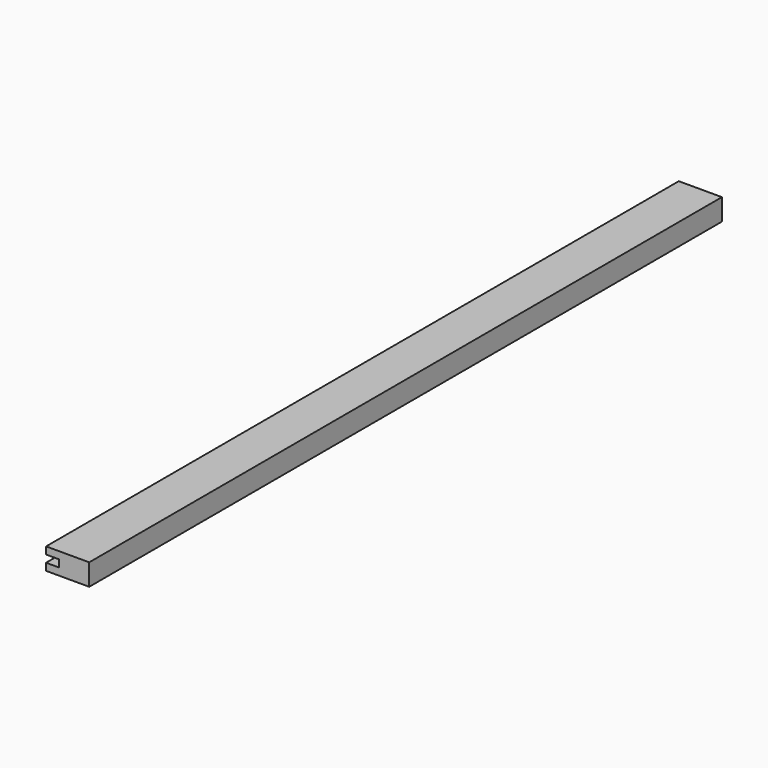
from build123d import *

# Parameters (mm, degrees)
F0_W     = 38.1
F0_H     = 19.05
F1_DEPTH = 698.5
F3_DEPTH = 698.501


with BuildPart() as f1:
    # F0 (on Front) → F1 (new body)
    with BuildSketch(Plane.XZ):
        Rectangle(F0_W, F0_H)
    extrude(amount=F1_DEPTH)

    # F2 (on face) → F3 (cut, through all)
    with BuildSketch(Plane.XZ.offset(698.5)):
        Polygon((-19.05, 0), (-19.05, -3.175), (-7.569117, -3.175), (-7.569117, 3.175), (-19.05, 3.175), align=None)
    extrude(amount=-F3_DEPTH, mode=Mode.SUBTRACT)


solid = f1.part
